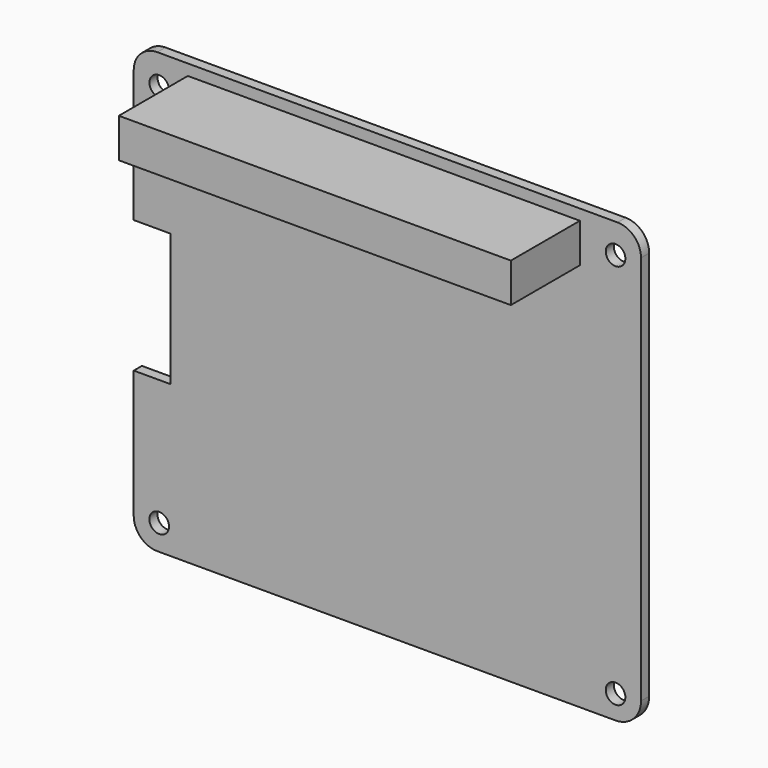
from build123d import *

# Parameters (mm, degrees)
F0_R     = 1.25
F0_W     = 50
F0_H     = 5
F1_DEPTH = 1.3
F2_DEPTH = 12.3


with BuildPart() as f1:
    # F0 (on Front) → F1 (new body)
    with BuildSketch(Plane.XZ):
        with BuildLine():
            Line((31.545311, 20.806975), (31.545311, 21.558411))
            ThreePointArc((31.545311, 21.558411), (30.667139, 23.679223), (28.546747, 24.558411))
            Line((28.546747, 24.558411), (-30.153253, 24.586515))
            ThreePointArc((-30.153253, 24.586515), (-32.275502, 23.708343), (-33.154689, 21.586515))
            Line((-33.154689, 21.586515), (-33.154689, 4.756975))
            Line((-33.154689, 4.756975), (-28.454689, 4.756975))
            Line((-28.454689, 4.756975), (-28.454689, -12.143025))
            Line((-28.454689, -12.143025), (-33.154689, -12.143025))
            Line((-33.154689, -12.143025), (-33.154689, -28.443025))
            ThreePointArc((-33.154689, -28.443025), (-32.27601, -30.564345), (-30.154689, -31.443025))
            Line((-30.154689, -31.443025), (28.295311, -31.443025))
            ThreePointArc((28.295311, -31.443025), (30.593408, -30.491122), (31.545311, -28.193025))
            Line((31.545311, -28.193025), (31.545311, 20.806975))
        make_face()
        with Locations((-29.904689, -28.193025)):
            Circle(F0_R, mode=Mode.SUBTRACT)
        with Locations((28.295311, -28.430467)):
            Circle(F0_R, mode=Mode.SUBTRACT)
        with Locations((-29.904689, 20.836515)):
            Circle(F0_R, mode=Mode.SUBTRACT)
        with Locations((-1.254689, 20.682743)):
            Rectangle(F0_W, F0_H, mode=Mode.SUBTRACT)
        with Locations((28.295311, 20.806975)):
            Circle(F0_R, mode=Mode.SUBTRACT)
    extrude(amount=F1_DEPTH)

    # F0 (on Front) → F2 (join)
    with BuildSketch(Plane.XZ):
        with Locations((-1.254689, 20.682743)):
            Rectangle(F0_W, F0_H)
    extrude(amount=F2_DEPTH)


solid = f1.part
